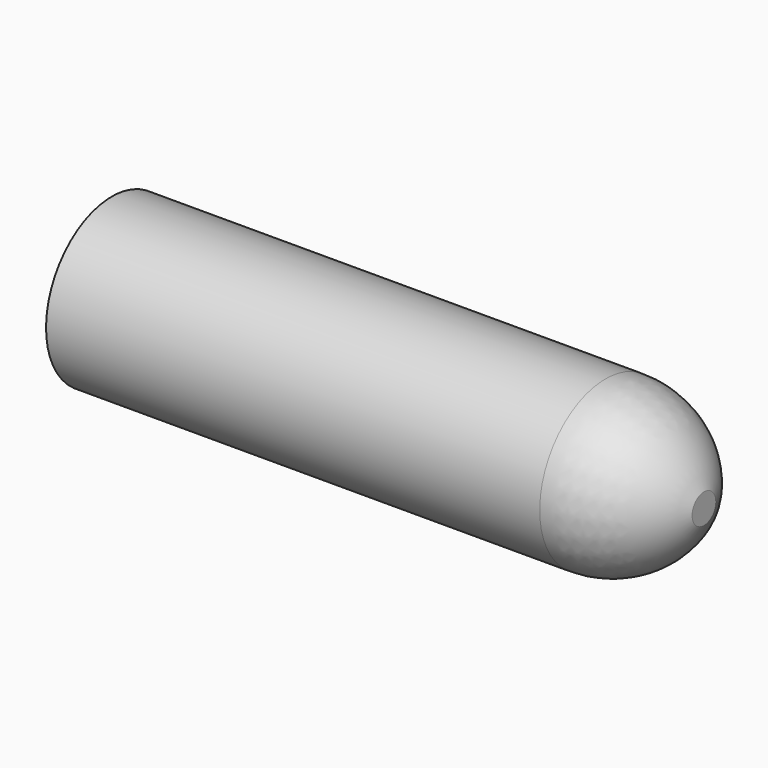
from build123d import *


with BuildPart() as f1:
    # F0 (on Front) → F1 (revolve)
    with BuildSketch(Plane.XZ):
        with BuildLine():
            ThreePointArc((9.263168, 6.35), (5.615354, 1.73991), (0, 0))
            Line((0, 0), (-76.2, 0))
            Line((-76.2, 0), (-76.2, -6.35))
            Line((-76.2, -6.35), (0, -6.35))
            ThreePointArc((0, -6.35), (9.207456, -3.496434), (15.187416, 4.064))
            Line((15.187416, 4.064), (15.187416, 6.35))
            Line((15.187416, 6.35), (9.263168, 6.35))
        make_face()
    revolve(axis=Axis((12.225292, 0, 6.35), (-1, 0, 0)))


solid = f1.part
